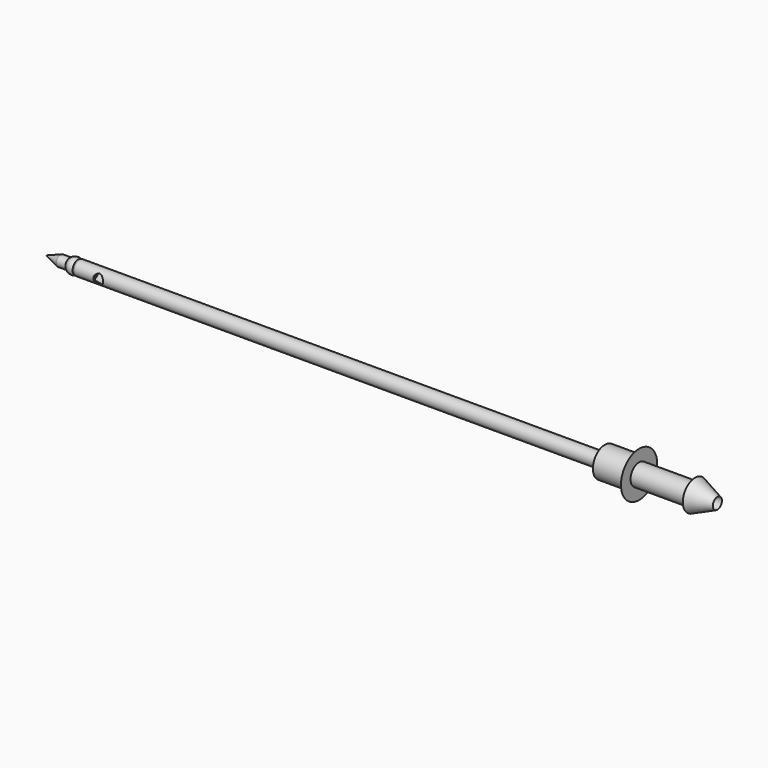
from build123d import *

# Parameters (mm, degrees)
F3_W          = 14.029525
F3_H          = 3.7592
F4_DEPTH      = 5.97
F4_DEPTH_BACK = 5.97
F7_R          = 1.27
F8_DEPTH      = 5.97


with BuildPart() as f1:
    # F0 (on Front) → F1 (revolve)
    with BuildSketch(Plane.XZ):
        Polygon((-182.0418, 1.8796), (-182.0418, 1.4986), (-21.7932, 1.4986), (-21.7932, 1.8796), (-29.6418, 1.8796), align=None)
    revolve(axis=Axis((-91.0209, 0, 0), (-1, 0, 0)))

    # F3 (on Front) → F4 (cut, two sides)
    with BuildSketch(Plane.XZ) as f4_sk:
        with Locations((-175.027038, 0)):
            Rectangle(F3_W, F3_H)
    extrude(amount=-F4_DEPTH, mode=Mode.SUBTRACT)
    extrude(f4_sk.sketch, amount=-F4_DEPTH_BACK, mode=Mode.SUBTRACT)

    # F5 (on Front) → F6 (revolve)
    with BuildSketch(Plane.XZ):
        with BuildLine():
            Line((-168.012275, 0), (-168.012275, 1.8796))
            Line((-168.012275, 1.8796), (-175.104429, 0.629062))
            ThreePointArc((-175.104429, 0.629062), (-175.482832, 0.410591), (-175.632275, 0))
            Line((-175.632275, 0), (-168.012275, 0))
        make_face()
    revolve(axis=Axis((-173.567227, 0, 0), (-1, 0, 0)))

    # F7 (on Front) → F8 (cut, through all)
    with BuildSketch(Plane.XZ):
        with Locations((-161.662275, 0)):
            Circle(F7_R)
    extrude(amount=F8_DEPTH, mode=Mode.SUBTRACT)


with BuildPart() as f2:
    # F0 (on Front) → F2 (revolve)
    with BuildSketch(Plane.XZ):
        Polygon((-21.7932, 1.8796), (-21.7932, 1.4986), (0, 1.4986), (-5.8928, 4.0259), (-5.8928, 2.8194), (-20.6248, 2.8194), (-20.6248, 5.969), (-21.7932, 3.9624), (-29.6418, 3.9624), (-29.6418, 1.8796), align=None)
    revolve(axis=Axis((-91.0209, 0, 0), (-1, 0, 0)))


with BuildPart() as f10:
    # F9 (on Front) → F10 (revolve)
    with BuildSketch(Plane.XZ):
        with BuildLine():
            Line((-169.313021, 1.984375), (-169.313021, -1.984375))
            ThreePointArc((-169.313021, -1.984375), (-167.328646, 0), (-169.313021, 1.984375))
        make_face()
    revolve(axis=Axis((-169.313021, 0, 1.325225), (0, 0, 1)))


with BuildPart() as f12:
    # F11 (on Front) → F12 (revolve)
    with BuildSketch(Plane.XZ):
        Polygon((-164.202275, 1.397), (-173.064049, 1.397), (-176.902275, 0), (-164.202275, 0), align=None)
    revolve(axis=Axis((-174.067578, 0, 0), (-1, 0, 0)))


solid = Compound([f1.part, f2.part, f10.part, f12.part])
